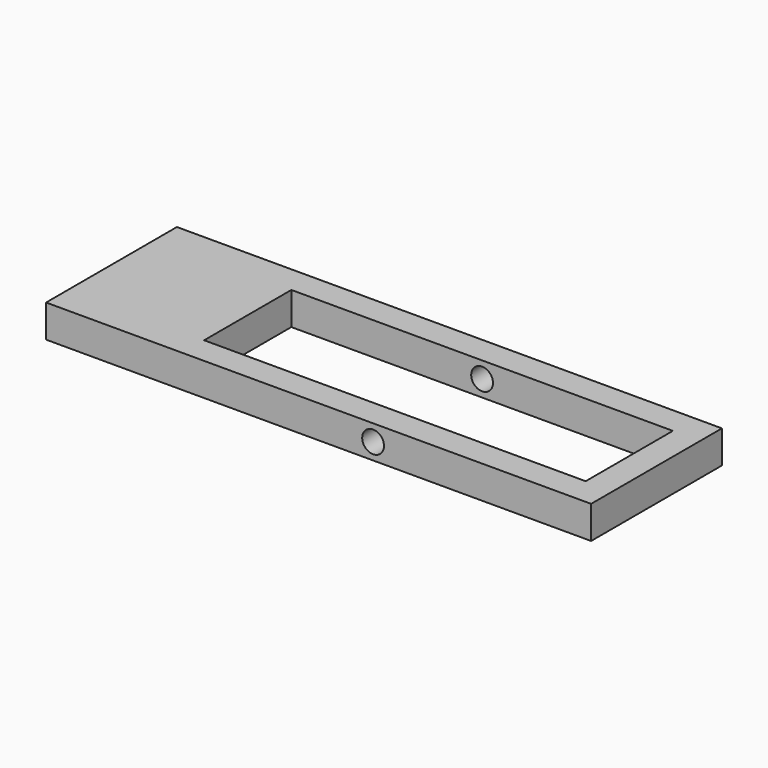
from build123d import *

# Parameters (mm, degrees)
F0_W     = 50
F0_H     = 3
F1_DEPTH = 7.5
F2_W     = 35
F2_H     = 10
F3_DEPTH = 1.5
F5_D     = 2


with BuildPart() as f1:
    # F0 (on Front) → F1 (new body, symmetric)
    with BuildSketch(Plane.XZ):
        Rectangle(F0_W, F0_H)
    extrude(amount=F1_DEPTH, both=True)

    # F2 (on Top) → F3 (cut, symmetric)
    with BuildSketch(Plane.XY):
        with Locations((5, 0)):
            Rectangle(F2_W, F2_H)
    extrude(amount=F3_DEPTH, both=True, mode=Mode.SUBTRACT)

    # F5 (through all)
    with Locations(Plane.XZ.offset(7.5)):
        with Locations((5, 0)):
            Hole(F5_D / 2)


solid = f1.part
